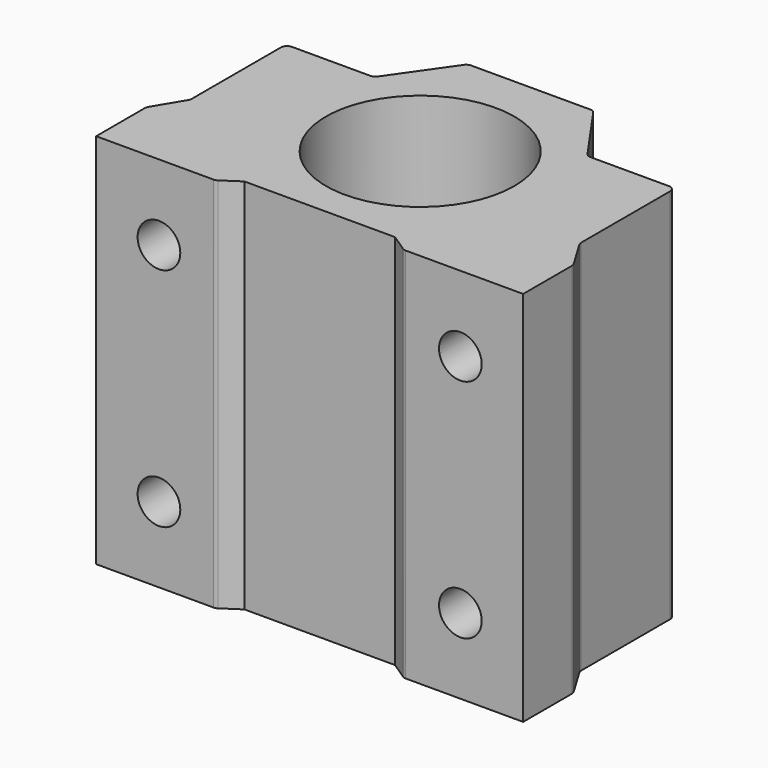
from build123d import *

# Parameters (mm, degrees)
SKETCH_R     = 7.5
PAD_DEPTH    = 30
SKETCH001_R  = 1.7
POCKET_DEPTH = 61.001
FILLET_R     = 0.5


with BuildPart() as part:
    # Sketch → Pad (new body)
    with BuildSketch(Plane.XY):
        Polygon((7.5, -11), (17, -11), (17, -6), (15.5, -3.5), (15.5, 6), (8.5, 6), (5, 11), (0, 11), (-5, 11), (-8.5, 6), (-15.5, 6), (-15.5, -3.5), (-17, -6), (-17, -11), (-7.5, -11), (-6, -10), (0, -10), (6, -10), align=None)
        Circle(SKETCH_R, mode=Mode.SUBTRACT)
    extrude(amount=PAD_DEPTH)

    # Sketch001 → Pocket (cut, through all)
    with BuildSketch(Plane.XZ.offset(-50)):
        with Locations((-12, 24)):
            Circle(SKETCH001_R)
        with Locations((12, 24)):
            Circle(SKETCH001_R)
        with Locations((-12, 6)):
            Circle(SKETCH001_R)
        with Locations((12, 6)):
            Circle(SKETCH001_R)
    extrude(amount=POCKET_DEPTH, mode=Mode.SUBTRACT)

    # Fillet
    fillet_edges = [part.edges().sort_by_distance(p)[0] for p in [
        (-5, 11, 15),
        (5, 11, 15),
        (-15.5, 6, 15),
        (-17, -6, 15),
        (15.5, 6, 15),
        (17, -6, 15),
        (-7.5, -11, 15),
        (7.5, -11, 15),
        (-8.5, 6, 15),
        (8.5, 6, 15),
        (-15.5, -3.5, 15),
        (15.5, -3.5, 15),
    ]]
    fillet(fillet_edges, radius=FILLET_R)


solid = part.part
